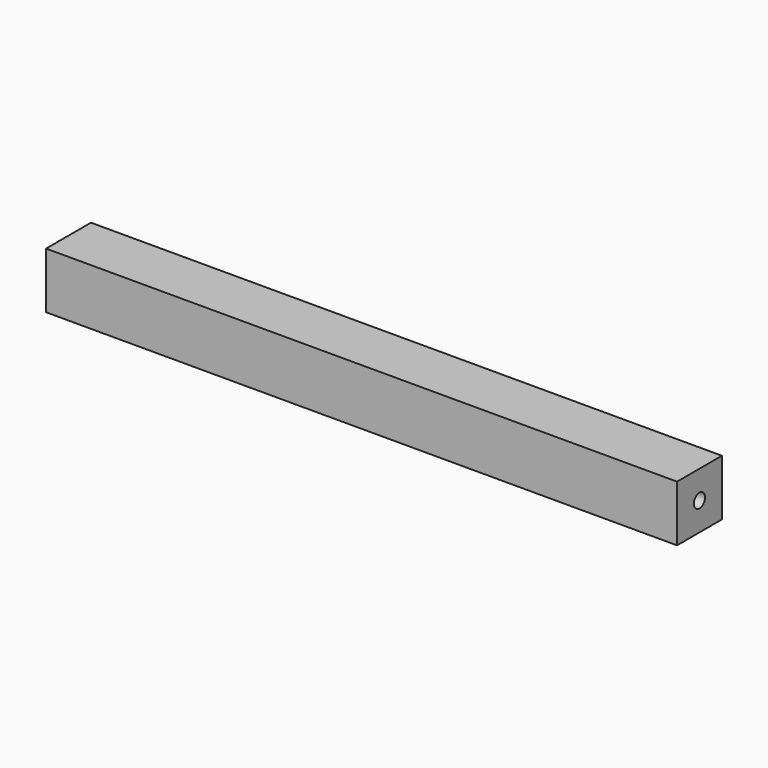
from build123d import *

# Parameters (mm, degrees)
F0_W     = 114.3
F0_H     = 10.16
F1_DEPTH = 10.16
F3_R     = 1.27
F4_DEPTH = 12.7
F2_R     = 1.27
F5_DEPTH = 12.7


with BuildPart() as f1:
    # F0 (on Top) → F1 (new body)
    with BuildSketch(Plane.XY):
        with Locations((-4.017718, 8.943918)):
            Rectangle(F0_W, F0_H)
    extrude(amount=F1_DEPTH)

    # F3 (on face) → F4 (cut)
    with BuildSketch(Plane.YZ.offset(53.132282)):
        with Locations((8.943918, 5.08)):
            Circle(F3_R)
    extrude(amount=-F4_DEPTH, mode=Mode.SUBTRACT)

    # F2 (on face) → F5 (cut)
    with BuildSketch(Plane(origin=(-61.167718, 0, 0), x_dir=(0, -1, 0), z_dir=(-1, 0, 0))):
        with Locations((-8.943918, 5.08)):
            Circle(F2_R)
    extrude(amount=-F5_DEPTH, mode=Mode.SUBTRACT)


solid = f1.part
